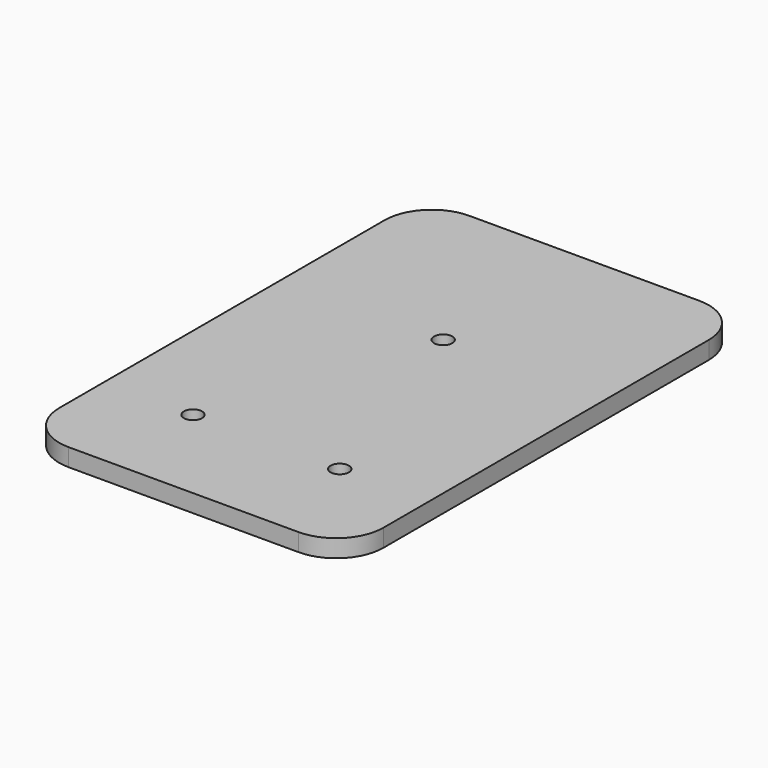
from build123d import *

# Parameters (mm, degrees)
F0_W     = 55
F0_H     = 85
F1_DEPTH = 3
F2_R     = 1.55
F3_DEPTH = 3
F4_R     = 8


with BuildPart() as f1:
    # F0 (on Top) → F1 (new body)
    with BuildSketch(Plane.XY):
        Rectangle(F0_W, F0_H)
    extrude(amount=F1_DEPTH)

    # F2 (on face) → F3 (cut, through all)
    with BuildSketch(Plane.XY.offset(3)):
        with Locations((-12.45, -24.95)):
            Circle(F2_R)
        with Locations((12.45, -24.95)):
            Circle(F2_R)
        with Locations((0, 12.55)):
            Circle(F2_R)
    extrude(amount=-F3_DEPTH, mode=Mode.SUBTRACT)

    # F4
    f4_edges = [f1.edges().sort_by_distance(p)[0] for p in [
        (27.5, -42.5, 1.5),
        (-27.5, -42.5, 1.5),
        (-27.5, 42.5, 1.5),
        (27.5, 42.5, 1.5),
    ]]
    fillet(f4_edges, radius=F4_R)


solid = f1.part
